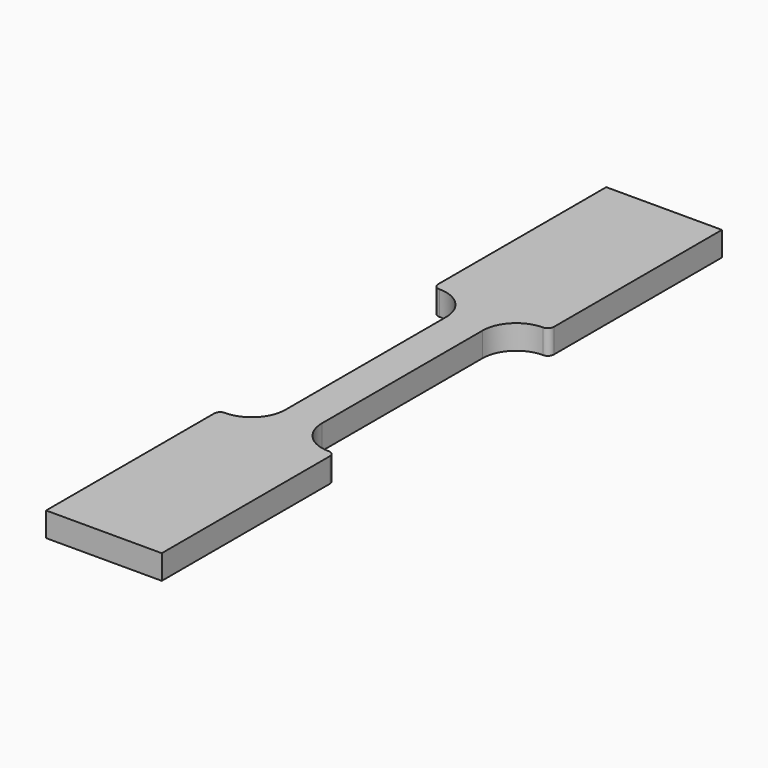
from build123d import *

# Parameters (mm, degrees)
F1_DEPTH = 4


with BuildPart() as f1:
    # F0 (on Top) → F1 (new body)
    with BuildSketch(Plane.XY):
        with BuildLine():
            Line((9.5, 57.5), (0, 57.5))
            Line((0, 57.5), (-9.5, 57.5))
            Line((-9.5, 57.5), (-9.5, 23))
            ThreePointArc((-9.5, 23), (-9.207107, 22.292893), (-8.5, 22))
            ThreePointArc((-8.5, 22), (-4.610913, 20.389087), (-3, 16.5))
            Line((-3, 16.5), (-3, 0))
            Line((-3, 0), (-3, -16.5))
            ThreePointArc((-3, -16.5), (-4.610913, -20.389087), (-8.5, -22))
            ThreePointArc((-8.5, -22), (-9.207107, -22.292893), (-9.5, -23))
            Line((-9.5, -23), (-9.5, -57.5))
            Line((-9.5, -57.5), (0, -57.5))
            Line((0, -57.5), (9.5, -57.5))
            Line((9.5, -57.5), (9.5, -23))
            ThreePointArc((9.5, -23), (9.207107, -22.292893), (8.5, -22))
            ThreePointArc((8.5, -22), (4.610913, -20.389087), (3, -16.5))
            Line((3, -16.5), (3, 0))
            Line((3, 0), (3, 16.5))
            ThreePointArc((3, 16.5), (4.610913, 20.389087), (8.5, 22))
            ThreePointArc((8.5, 22), (9.207107, 22.292893), (9.5, 23))
            Line((9.5, 23), (9.5, 57.5))
        make_face()
    extrude(amount=F1_DEPTH)


solid = f1.part
